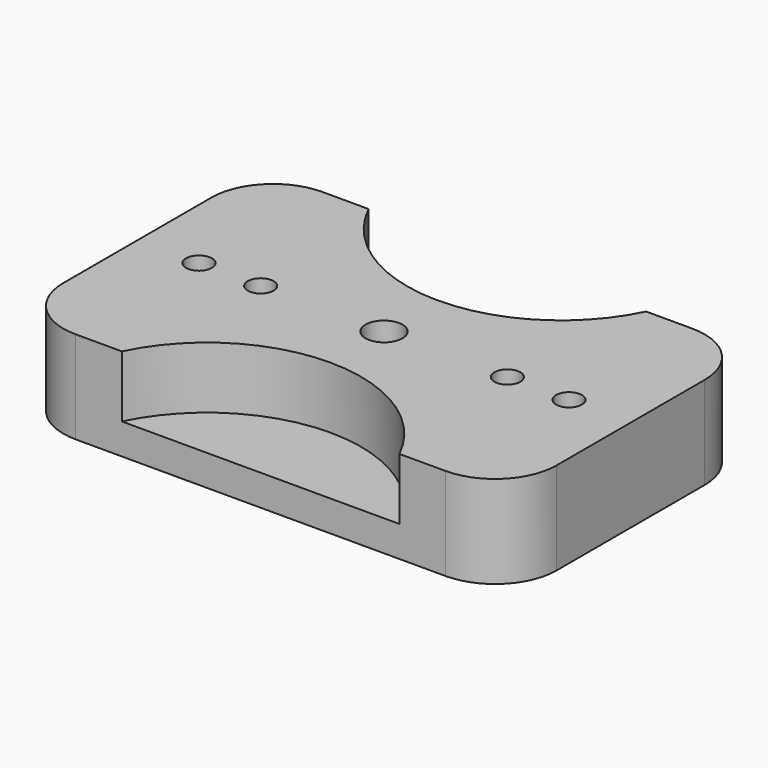
from build123d import *

# Parameters (mm, degrees)
SKETCH_W        = 160
SKETCH_H        = 100
PAD_DEPTH       = 30
SKETCH001_R     = 6
SKETCH001_R_2   = 4.2
POCKET_DEPTH    = 30
POCKET001_DEPTH = 8
SKETCH003_R     = 15
POCKET002_DEPTH = 10
FILLET_R        = 20
POCKET003_DEPTH = 20
FILLET001_R     = 20
FILLET002_R     = 20
FILLET003_R     = 20
SKETCH006_R     = 4.2
POCKET004_DEPTH = 20


with BuildPart() as part:
    # Sketch → Pad (new body)
    with BuildSketch(Plane.XY):
        Rectangle(SKETCH_W, SKETCH_H)
    extrude(amount=PAD_DEPTH)

    # Sketch001 (on Face6 of Pad) → Pocket (cut)
    with BuildSketch(Plane.XY.offset(30)):
        Circle(SKETCH001_R)
        with Locations((60, 0)):
            Circle(SKETCH001_R_2)
        with Locations((-60, 0)):
            Circle(SKETCH001_R_2)
    extrude(amount=-POCKET_DEPTH, mode=Mode.SUBTRACT)

    # Sketch002 (on Face4 of Pocket) → Pocket001 (cut)
    with BuildSketch(Plane(origin=(0, 0, 0), x_dir=(1, 0, 0), z_dir=(0, 0, -1))):
        Polygon((-52.436711, 0), (-56.218356, 6.55), (-63.781644, 6.55), (-67.563289, 0), (-63.781644, -6.55), (-56.218356, -6.55), align=None)
        Polygon((67.563289, 0), (63.781644, 6.55), (56.218356, 6.55), (52.436711, 0), (56.218356, -6.55), (63.781644, -6.55), align=None)
    extrude(amount=-POCKET001_DEPTH, mode=Mode.SUBTRACT)

    # Sketch003 (on Face4 of Pocket001) → Pocket002 (cut)
    with BuildSketch(Plane(origin=(0, 0, 0), x_dir=(1, 0, 0), z_dir=(0, 0, -1))):
        Circle(SKETCH003_R)
    extrude(amount=-POCKET002_DEPTH, mode=Mode.SUBTRACT)

    # Fillet
    fillet_edges = [part.edges().sort_by_distance(p)[0] for p in [
        (-80, 50, 15),
    ]]
    fillet(fillet_edges, radius=FILLET_R)

    # Sketch004 → Pocket003 (cut)
    with BuildSketch(Plane.XY.offset(30)):
        with BuildLine():
            ThreePointArc((-45, 50), (0, 21.794495), (45, 50))
            Line((-45, 50), (45, 50))
        make_face()
        with BuildLine():
            ThreePointArc((45, -50), (0, -21.794495), (-45, -50))
            Line((-45, -50), (45, -50))
        make_face()
    extrude(amount=-POCKET003_DEPTH, mode=Mode.SUBTRACT)

    # Fillet001
    fillet001_edges = [part.edges().sort_by_distance(p)[0] for p in [
        (80, -50, 15),
    ]]
    fillet(fillet001_edges, radius=FILLET001_R)

    # Fillet002
    fillet002_edges = [part.edges().sort_by_distance(p)[0] for p in [
        (80, 50, 15),
    ]]
    fillet(fillet002_edges, radius=FILLET002_R)

    # Fillet003
    fillet003_edges = [part.edges().sort_by_distance(p)[0] for p in [
        (-80, -50, 15),
    ]]
    fillet(fillet003_edges, radius=FILLET003_R)

    # Sketch006 (on Face23 of Fillet003) → Pocket004 (cut)
    with BuildSketch(Plane.XY.offset(30)):
        with Locations((-40, 0)):
            Circle(SKETCH006_R)
        with Locations((40, 0)):
            Circle(SKETCH006_R)
    extrude(amount=-POCKET004_DEPTH, mode=Mode.SUBTRACT)


solid = part.part
